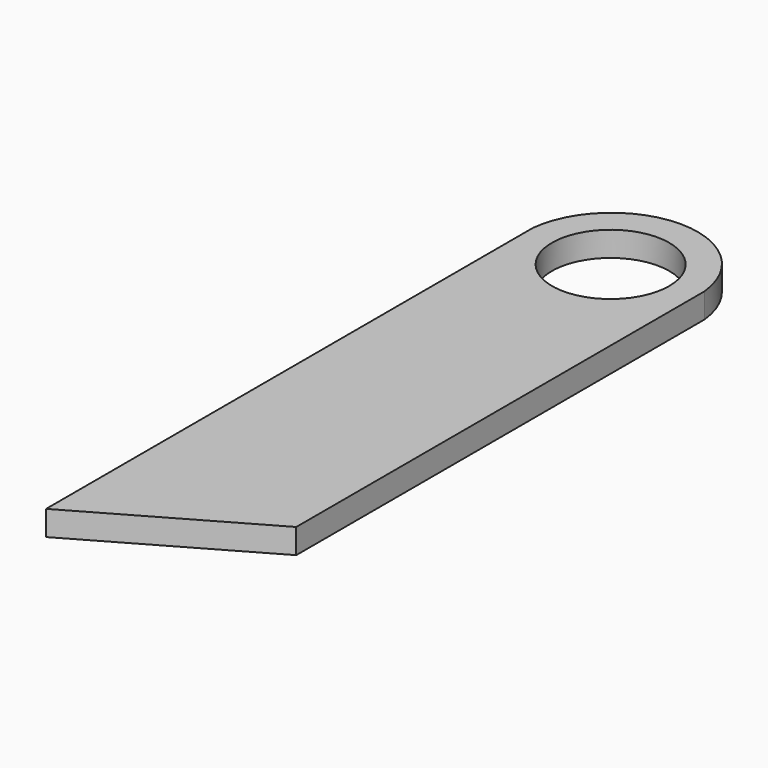
from build123d import *

# Parameters (mm, degrees)
F4_R     = 30.353
F5_DEPTH = 12.8524


with BuildPart() as f5:
    # F4 (on face) → F5 (new body)
    with BuildSketch(Plane.XY):
        with BuildLine():
            Line((-21.337585, -116.979506), (-21.337585, 147.294909))
            ThreePointArc((-21.337585, 147.294909), (-65.787585, 187.33966), (-110.237585, 147.294909))
            Line((-110.237585, 147.294909), (-110.237585, -167.779506))
            Line((-110.237585, -167.779506), (-21.337585, -116.979506))
        make_face()
        with Locations((-65.724085, 141.998894)):
            Circle(F4_R, mode=Mode.SUBTRACT)
    extrude(amount=F5_DEPTH)


solid = f5.part
